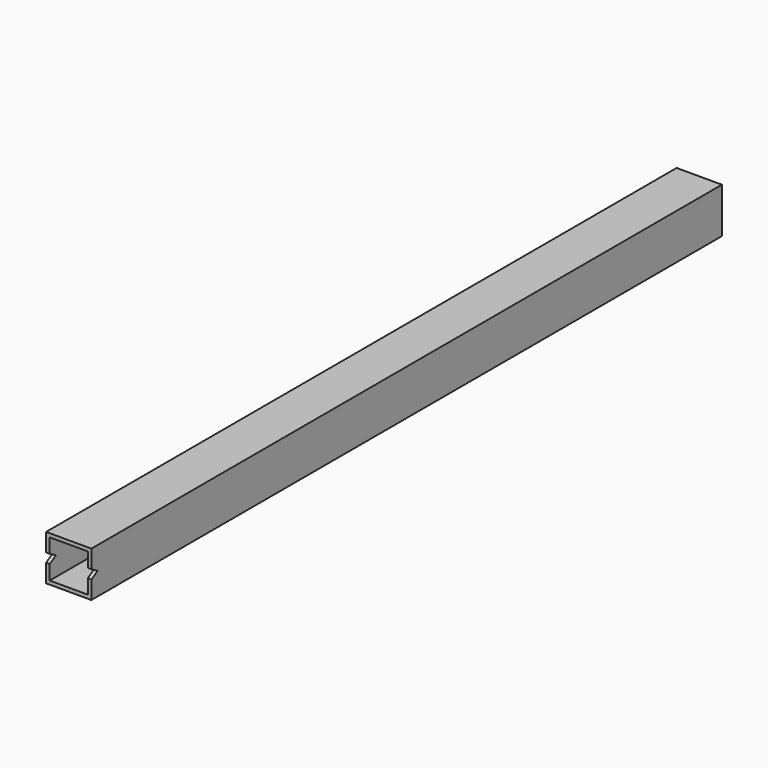
from build123d import *

# Parameters (mm, degrees)
F0_W     = 31.75
F0_H     = 31.75
F0_W_2   = 26.67
F0_H_2   = 26.67
F1_DEPTH = 276.225
F3_DEPTH = 31.75


with BuildPart() as f1:
    # F0 (on Front) → F1 (new body, symmetric)
    with BuildSketch(Plane.XZ):
        Rectangle(F0_W, F0_H)
        Rectangle(F0_W_2, F0_H_2, mode=Mode.SUBTRACT)
    extrude(amount=F1_DEPTH, both=True)

    # F2 (on face) → F3 (cut, through all)
    with BuildSketch(Plane.YZ.offset(15.875)):
        Polygon((-276.225, -3.175), (-270.725739, 0), (-276.225, 3.175), align=None)
    extrude(amount=-F3_DEPTH, mode=Mode.SUBTRACT)


solid = f1.part
